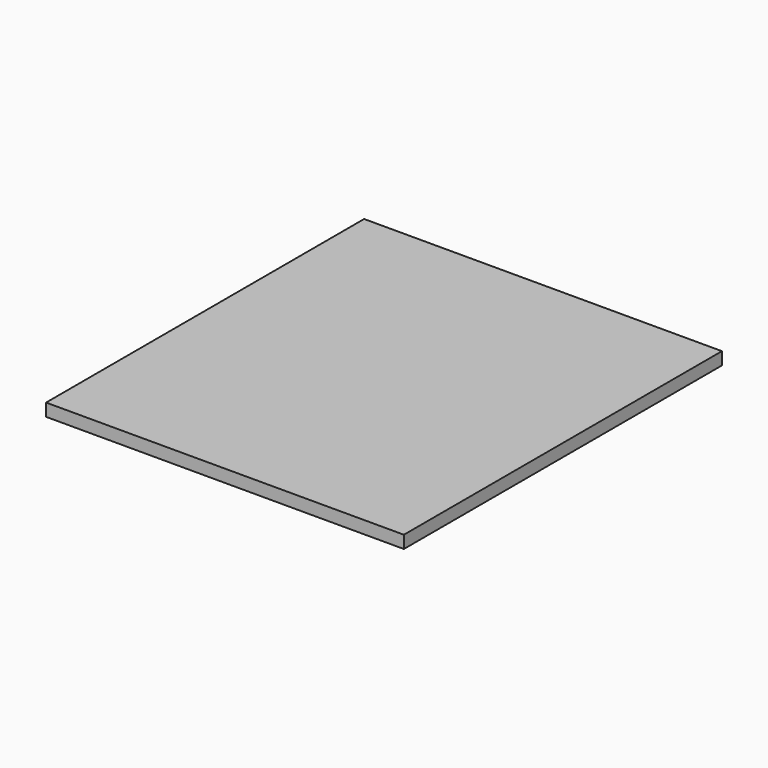
from build123d import *

# Parameters (mm, degrees)
SKETCH003_W  = 540
SKETCH003_H  = 600
PAD003_DEPTH = 19


with BuildPart() as part:
    # Sketch003 → Pad003 (new body)
    with BuildSketch(Plane.XY):
        Rectangle(SKETCH003_W, SKETCH003_H)
    extrude(amount=PAD003_DEPTH)


solid = part.part
